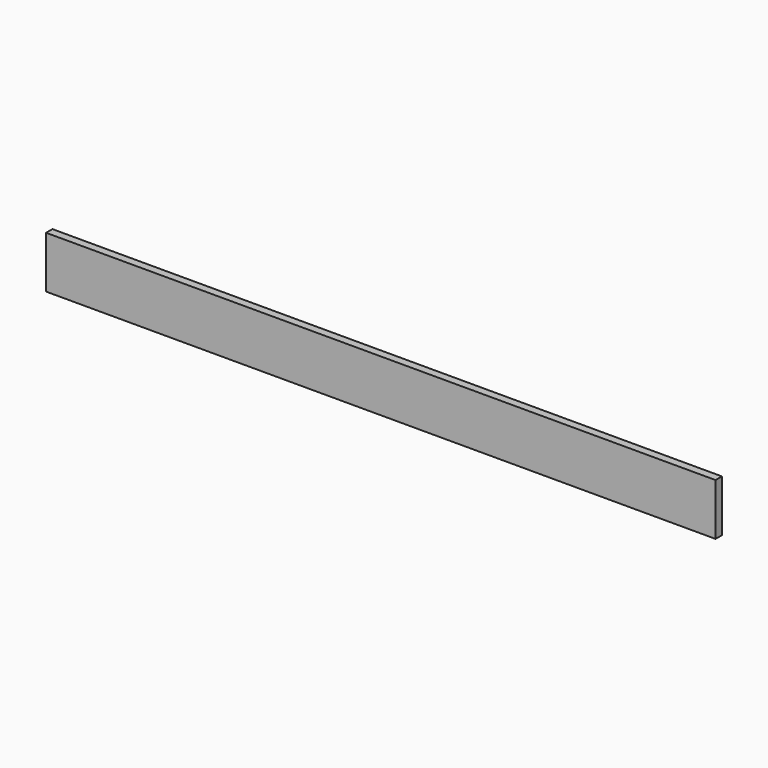
from build123d import *

# Parameters (mm, degrees)
SKETCH_W  = 1066.8
SKETCH_H  = 82.55
PAD_DEPTH = 12.7


with BuildPart() as part:
    # Sketch → Pad (new body)
    with BuildSketch(Plane.XZ):
        with Locations((0, 41.275)):
            Rectangle(SKETCH_W, SKETCH_H)
    extrude(amount=PAD_DEPTH)


solid = part.part
